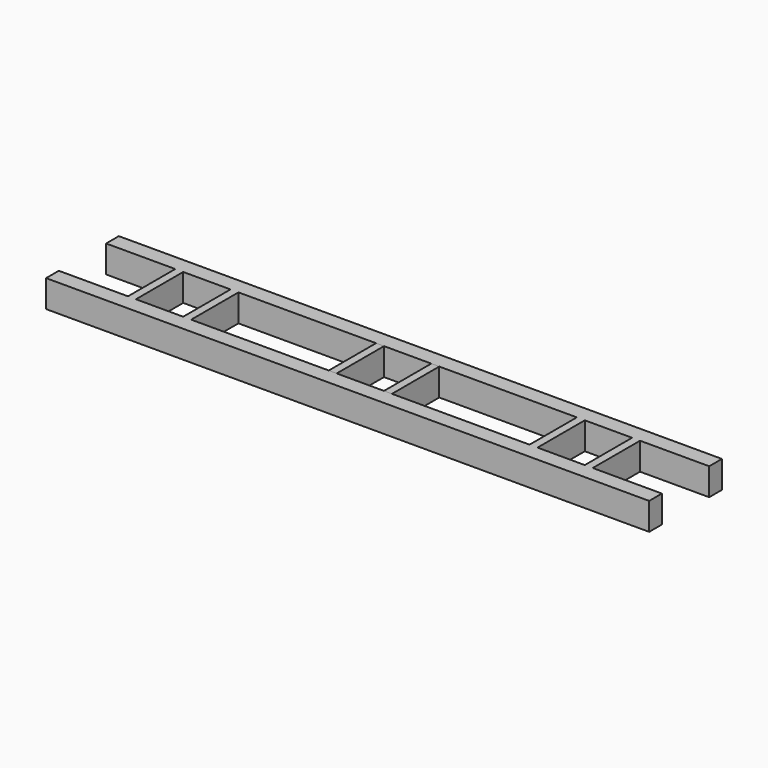
from build123d import *

# Parameters (mm, degrees)
F0_W     = 695
F0_H     = 650
F1_DEPTH = 300
F2_W     = 520
F2_H     = 650
F3_DEPTH = 300.001
F4_W     = 695
F4_H     = 650
F5_DEPTH = 300
F6_W     = 520
F6_H     = 650
F7_DEPTH = 300.001


with BuildPart() as f1:
    # F0 (on Top) → F1 (new body)
    with BuildSketch(Plane.XY):
        Polygon((-2556.161768, -990.227569), (-3316.661768, -990.227569), (-3316.661768, -1165.227569), (3315.338232, -1165.227569), (3315.338232, -990.227569), (2554.838232, -990.227569), (1859.838232, -990.227569), (346.838232, -990.227569), (-348.161768, -990.227569), (-1861.161768, -990.227569), align=None)
        with Locations((-2208.661768, -665.227569)):
            Rectangle(F0_W, F0_H)
        Polygon((-3316.661768, -340.227569), (-2556.161768, -340.227569), (-1861.161768, -340.227569), (-348.161768, -340.227569), (346.838232, -340.227569), (1859.838232, -340.227569), (2554.838232, -340.227569), (3315.338232, -340.227569), (3315.338232, -165.227569), (-3316.661768, -165.227569), align=None)
        with Locations((2207.338232, -665.227569)):
            Rectangle(F0_W, F0_H)
    extrude(amount=F1_DEPTH)

    # F2 (on face) → F3 (cut, through all)
    with BuildSketch(Plane.XY.offset(300)):
        with Locations((-2208.661768, -665.227569)):
            Rectangle(F2_W, F2_H)
        with Locations((2207.338232, -665.227569)):
            Rectangle(F2_W, F2_H)
    extrude(amount=-F3_DEPTH, mode=Mode.SUBTRACT)


with BuildPart() as f5:
    # F4 (on face) → F5 (new body)
    with BuildSketch(Plane.XY.offset(300)):
        with Locations((-0.661768, -665.227569)):
            Rectangle(F4_W, F4_H)
    extrude(amount=-F5_DEPTH)

    # F6 (on face) → F7 (cut, through all)
    with BuildSketch(Plane.XY.offset(300)):
        with Locations((-0.661768, -665.227569)):
            Rectangle(F6_W, F6_H)
    extrude(amount=-F7_DEPTH, mode=Mode.SUBTRACT)


solid = Compound([f1.part, f5.part])
